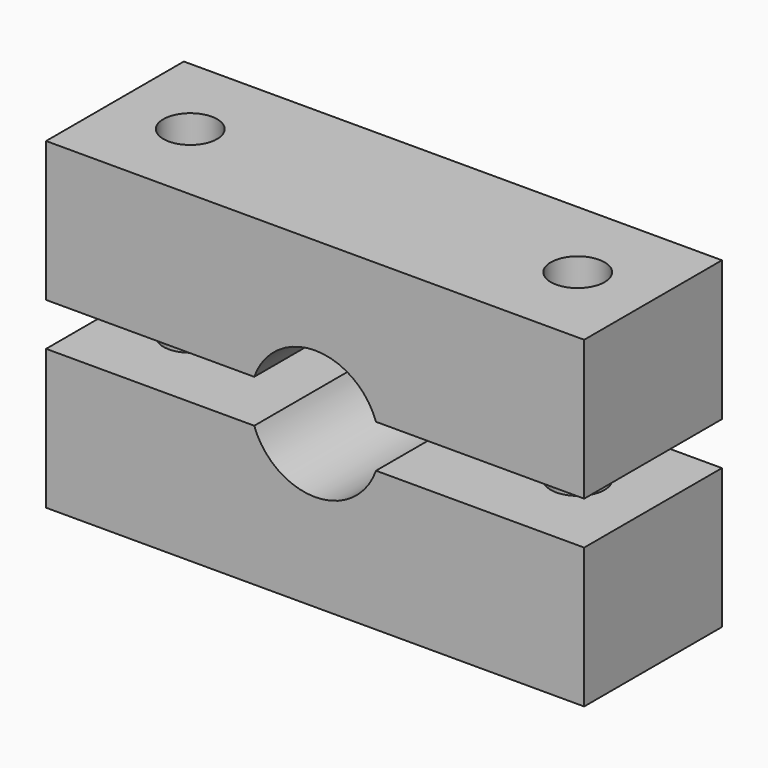
from build123d import *

# Parameters (mm, degrees)
F1_DEPTH = 8
F2_R     = 2.5
F3_DEPTH = 50


with BuildPart() as f1:
    # F0 (on Front) → F1 (new body, symmetric)
    with BuildSketch(Plane.XZ):
        with BuildLine():
            Line((0, 17), (19.343146, 17))
            ThreePointArc((19.343146, 17), (25, 21), (30.656854, 17))
            Line((30.656854, 17), (50, 17))
            Line((50, 17), (50, 30))
            Line((50, 30), (0, 30))
            Line((0, 30), (0, 17))
        make_face()
        with BuildLine():
            Line((0, 13), (0, 0))
            Line((0, 0), (50, 0))
            Line((50, 0), (50, 13))
            Line((50, 13), (30.656854, 13))
            ThreePointArc((30.656854, 13), (25, 9), (19.343146, 13))
            Line((19.343146, 13), (0, 13))
        make_face()
    extrude(amount=F1_DEPTH, both=True)

    # F2 (on face) → F3 (cut)
    with BuildSketch(Plane.XY.offset(30)):
        with Locations((7, 0)):
            Circle(F2_R)
        with Locations((43, 0)):
            Circle(F2_R)
    extrude(amount=-F3_DEPTH, mode=Mode.SUBTRACT)


solid = f1.part
